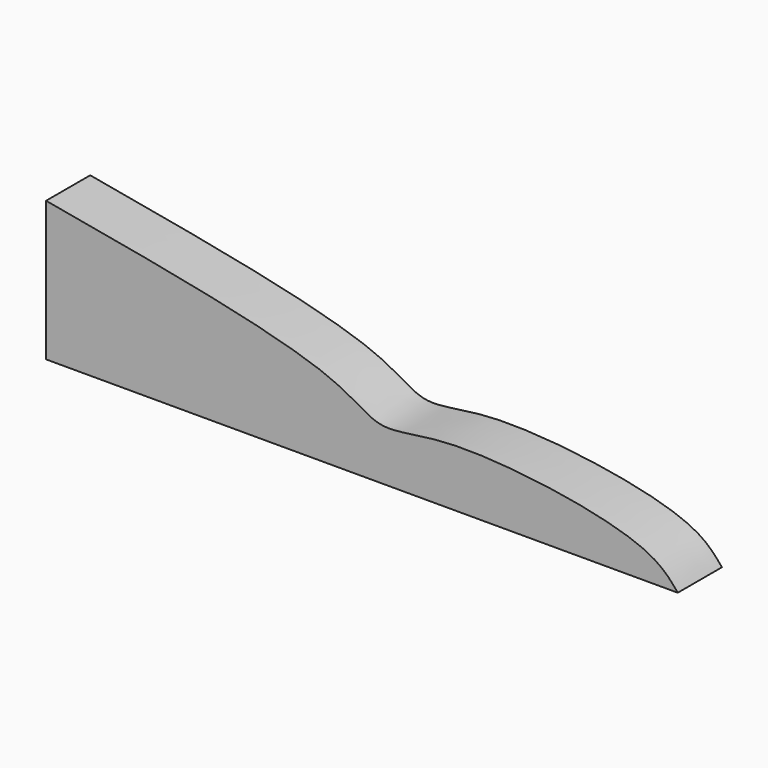
from build123d import *

# Parameters (mm, degrees)
F1_DEPTH = 25.4


with BuildPart() as f1:
    # F0 (on Front) → F1 (new body)
    with BuildSketch(Plane.XZ):
        with BuildLine():
            add(Edge.make_bspline(
                [(-147.0027416945, 66.5129942576), (-93.0323623806, 56.8946666171), (-16.2964620921, 43.2191831362), (6.5053614045, 21.707314838), (38.5984057984, 33.1205551445), (128.7562946816, 20.6593576563), (140.110515157, 6.7751631135), (143.8499242067, 2.2025301587)],
                knots=[0, 0, 0, 0, 0.3211800281, 0.456658614, 0.612001064, 0.872216086, 1, 1, 1, 1], degree=3))
            Line((-147.0027416945, 66.5129942576), (-147.0027416945, 2.2025301587))
            Line((-147.0027416945, 2.2025301587), (143.8499242067, 2.2025301587))
        make_face()
    extrude(amount=F1_DEPTH)


solid = f1.part
